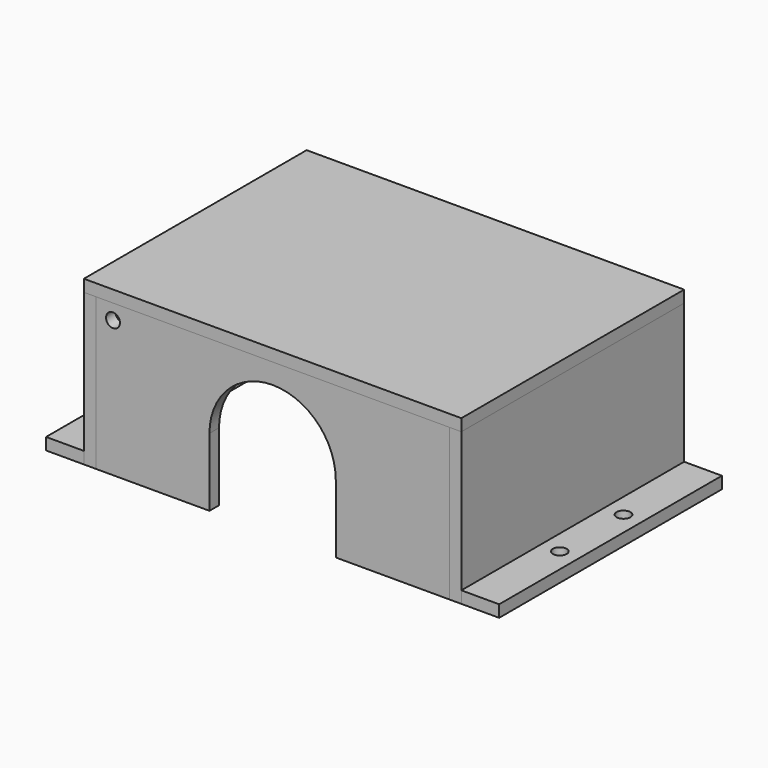
from build123d import *

# Parameters (mm, degrees)
F3_W      = 88.9
F3_H      = 38.1
F4_DEPTH  = 3
F5_R      = 1.75
F6_DEPTH  = 3
F10_W     = 70
F10_H     = 38.1
F11_DEPTH = 3
F13_W     = 94.9
F13_H     = 70
F14_DEPTH = 3
F15_W     = 70
F15_H     = 3
F16_DEPTH = 9.5
F18_R     = 1.75
F19_DEPTH = 3.001
F22_DEPTH = 3
F23_R     = 2.5
F24_DEPTH = 3


with BuildPart() as f4:
    # F3 (on Front) → F4 (new body)
    with BuildSketch(Plane.XZ):
        with Locations((44.45, 19.05)):
            Rectangle(F3_W, F3_H)
    extrude(amount=-F4_DEPTH)

    # F5 (on face) → F6 (cut, through all)
    with BuildSketch(Plane.XZ):
        with Locations((4.318, 34.29)):
            Circle(F5_R)
    extrude(amount=-F6_DEPTH, mode=Mode.SUBTRACT)


with BuildPart() as f8_1:
    # F8: instance of F4
    add(f4.part.mirror(Plane.XZ.offset(-35)))

    # F23 (on face) → F24 (cut, through all)
    with BuildSketch(Plane(origin=(0, 70, 0), x_dir=(-1, 0, 0), z_dir=(0, 1, 0))):
        with Locations((-44.45, 25.4)):
            Circle(F23_R)
    extrude(amount=-F24_DEPTH, mode=Mode.SUBTRACT)


with BuildPart() as f11:
    # F10 (on plane+point) → F11 (new body)
    with BuildSketch(Plane.YZ):
        with Locations((35, 19.05)):
            Rectangle(F10_W, F10_H)
    extrude(amount=-F11_DEPTH)


with BuildPart() as f14:
    # F13 (on plane+point) → F14 (new body)
    with BuildSketch(Plane.XY.offset(38.1)):
        with Locations((44.45, 35)):
            Rectangle(F13_W, F13_H)
    extrude(amount=F14_DEPTH)


with BuildPart() as f16:
    # F15 (on face) → F16 (new body)
    with BuildSketch(Plane(origin=(-3, 0, 0), x_dir=(0, -1, 0), z_dir=(-1, 0, 0))):
        with Locations((-35, 1.5)):
            Rectangle(F15_W, F15_H)
    extrude(amount=F16_DEPTH)

    # F18 (on face) → F19 (cut, through all)
    with BuildSketch(Plane.XY.offset(3)):
        with Locations((-7.75, 45)):
            Circle(F18_R)
        with Locations((-7.75, 25)):
            Circle(F18_R)
    extrude(amount=-F19_DEPTH, mode=Mode.SUBTRACT)


with BuildPart() as f20_1:
    # F20: instance of F16
    add(f16.part.mirror(Plane(origin=(44.45, 0.75, 9.525), x_dir=(0, 1, 0), z_dir=(1, 0, 0))))


with BuildPart() as f20_2:
    # F20: instance of F11
    add(f11.part.mirror(Plane(origin=(44.45, 0.75, 9.525), x_dir=(0, 1, 0), z_dir=(1, 0, 0))))


with BuildPart() as f4_1:
    add(f4.part)

    # F21 (on face) → F22 (cut, through all)
    with BuildSketch(Plane.XZ):
        with BuildLine():
            Line((60.325, 0), (60.325, 17.145))
            ThreePointArc((60.325, 17.145), (44.45, 33.02), (28.575, 17.145))
            Line((28.575, 17.145), (28.575, 0))
            Line((28.575, 0), (60.325, 0))
        make_face()
    extrude(amount=-F22_DEPTH, mode=Mode.SUBTRACT)


solid = Compound([f8_1.part, f11.part, f14.part, f16.part, f20_1.part, f20_2.part, f4_1.part])
